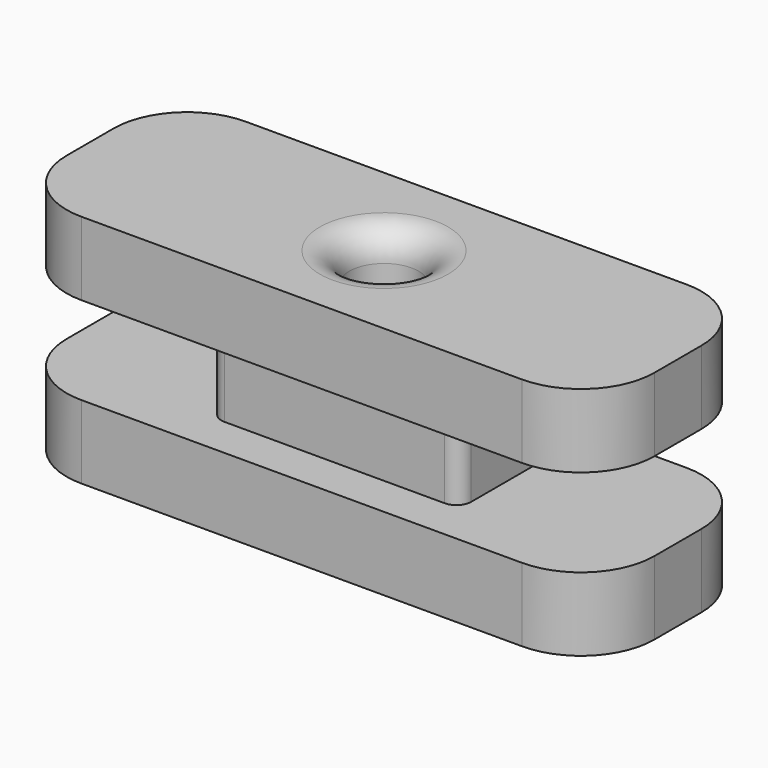
from build123d import *

# Parameters (mm, degrees)
F0_R      = 1.5
F1_DEPTH  = 3.8
F1_FACE_R = 1.5
F2_DEPTH  = 3.175
F3_R      = 1.5
F4_DEPTH  = 3.175
F5_R      = 1.27
F6_R      = 1.27


with BuildPart() as f1:
    # F0 (on Top) → F1 (new body)
    with BuildSketch(Plane.XY):
        with BuildLine():
            ThreePointArc((5.3975, 2.0388861202), (5.2115128061, 2.4878989263), (4.7625, 2.6738861202))
            Line((4.7625, 2.6738861202), (-4.7625, 2.6738861202))
            ThreePointArc((-4.7625, 2.6738861202), (-5.2115128061, 2.4878989263), (-5.3975, 2.0388861202))
            Line((-5.3975, 2.0388861202), (-5.3975, -2.0388861202))
            ThreePointArc((-5.3975, -2.0388861202), (-5.2115128061, -2.4878989263), (-4.7625, -2.6738861202))
            Line((-4.7625, -2.6738861202), (4.7625, -2.6738861202))
            ThreePointArc((4.7625, -2.6738861202), (5.2115128061, -2.4878989263), (5.3975, -2.0388861202))
            Line((5.3975, -2.0388861202), (5.3975, 2.0388861202))
        make_face()
        Circle(F0_R, mode=Mode.SUBTRACT)
    extrude(amount=F1_DEPTH)

    # F0 (on Top) + F1_face (on face) → F2 (join)
    with BuildSketch(Plane.XY):
        with BuildLine():
            ThreePointArc((12.7, 1.27), (11.7700640303, 3.5150640303), (9.525, 4.445))
            Line((9.525, 4.445), (-9.525, 4.445))
            ThreePointArc((-9.525, 4.445), (-11.7700640303, 3.5150640303), (-12.7, 1.27))
            Line((-12.7, 1.27), (-12.7, -1.27))
            ThreePointArc((-12.7, -1.27), (-11.7700640303, -3.5150640303), (-9.525, -4.445))
            Line((-9.525, -4.445), (9.525, -4.445))
            ThreePointArc((9.525, -4.445), (11.7700640303, -3.5150640303), (12.7, -1.27))
            Line((12.7, -1.27), (12.7, 1.27))
        make_face()
        with BuildLine():
            Line((-4.7625, 2.6738861202), (4.7625, 2.6738861202))
            ThreePointArc((4.7625, 2.6738861202), (5.2115128061, 2.4878989263), (5.3975, 2.0388861202))
            Line((5.3975, 2.0388861202), (5.3975, -2.0388861202))
            ThreePointArc((5.3975, -2.0388861202), (5.2115128061, -2.4878989263), (4.7625, -2.6738861202))
            Line((4.7625, -2.6738861202), (-4.7625, -2.6738861202))
            ThreePointArc((-4.7625, -2.6738861202), (-5.2115128061, -2.4878989263), (-5.3975, -2.0388861202))
            Line((-5.3975, -2.0388861202), (-5.3975, 2.0388861202))
            ThreePointArc((-5.3975, 2.0388861202), (-5.2115128061, 2.4878989263), (-4.7625, 2.6738861202))
        make_face(mode=Mode.SUBTRACT)
    with BuildSketch(Plane(origin=(0, 0, 0), x_dir=(1, 0, 0), z_dir=(0, 0, -1))):
        with BuildLine():
            ThreePointArc((4.7625, -2.6738861202), (5.2115128061, -2.4878989263), (5.3975, -2.0388861202))
            Line((5.3975, -2.0388861202), (5.3975, 2.0388861202))
            ThreePointArc((5.3975, 2.0388861202), (5.2115128061, 2.4878989263), (4.7625, 2.6738861202))
            Line((4.7625, 2.6738861202), (-4.7625, 2.6738861202))
            ThreePointArc((-4.7625, 2.6738861202), (-5.2115128061, 2.4878989263), (-5.3975, 2.0388861202))
            Line((-5.3975, 2.0388861202), (-5.3975, -2.0388861202))
            ThreePointArc((-5.3975, -2.0388861202), (-5.2115128061, -2.4878989263), (-4.7625, -2.6738861202))
            Line((-4.7625, -2.6738861202), (4.7625, -2.6738861202))
        make_face()
        Circle(F1_FACE_R, mode=Mode.SUBTRACT)
    extrude(amount=-F2_DEPTH, dir=(0, 0, 1))

    # F3 (on face) → F4 (join)
    with BuildSketch(Plane.XY.offset(3.8)):
        with BuildLine():
            ThreePointArc((12.7, 1.27), (11.7700640303, 3.5150640303), (9.525, 4.445))
            Line((9.525, 4.445), (-9.525, 4.445))
            ThreePointArc((-9.525, 4.445), (-11.7700640303, 3.5150640303), (-12.7, 1.27))
            Line((-12.7, 1.27), (-12.7, -1.27))
            ThreePointArc((-12.7, -1.27), (-11.7700640303, -3.5150640303), (-9.525, -4.445))
            Line((-9.525, -4.445), (9.525, -4.445))
            ThreePointArc((9.525, -4.445), (11.7700640303, -3.5150640303), (12.7, -1.27))
            Line((12.7, -1.27), (12.7, 1.27))
        make_face()
        with BuildLine():
            ThreePointArc((4.7625, 2.6738861202), (5.2115128061, 2.4878989263), (5.3975, 2.0388861202))
            Line((5.3975, 2.0388861202), (5.3975, -2.0388861202))
            ThreePointArc((5.3975, -2.0388861202), (5.2115128061, -2.4878989263), (4.7625, -2.6738861202))
            Line((4.7625, -2.6738861202), (-4.7625, -2.6738861202))
            ThreePointArc((-4.7625, -2.6738861202), (-5.2115128061, -2.4878989263), (-5.3975, -2.0388861202))
            Line((-5.3975, -2.0388861202), (-5.3975, 2.0388861202))
            ThreePointArc((-5.3975, 2.0388861202), (-5.2115128061, 2.4878989263), (-4.7625, 2.6738861202))
            Line((-4.7625, 2.6738861202), (4.7625, 2.6738861202))
        make_face(mode=Mode.SUBTRACT)
        with BuildLine():
            Line((5.3975, -2.0388861202), (5.3975, 2.0388861202))
            ThreePointArc((5.3975, 2.0388861202), (5.2115128061, 2.4878989263), (4.7625, 2.6738861202))
            Line((4.7625, 2.6738861202), (-4.7625, 2.6738861202))
            ThreePointArc((-4.7625, 2.6738861202), (-5.2115128061, 2.4878989263), (-5.3975, 2.0388861202))
            Line((-5.3975, 2.0388861202), (-5.3975, -2.0388861202))
            ThreePointArc((-5.3975, -2.0388861202), (-5.2115128061, -2.4878989263), (-4.7625, -2.6738861202))
            Line((-4.7625, -2.6738861202), (4.7625, -2.6738861202))
            ThreePointArc((4.7625, -2.6738861202), (5.2115128061, -2.4878989263), (5.3975, -2.0388861202))
        make_face()
        Circle(F3_R, mode=Mode.SUBTRACT)
    extrude(amount=F4_DEPTH)

    # F5
    f5_edges = [f1.edges().sort_by_distance(p)[0] for p in [
        (-1.5, 0, 6.975),
    ]]
    fillet(f5_edges, radius=F5_R)

    # F6
    f6_edges = [f1.edges().sort_by_distance(p)[0] for p in [
        (-1.5, 0, -3.175),
    ]]
    fillet(f6_edges, radius=F6_R)


solid = f1.part
